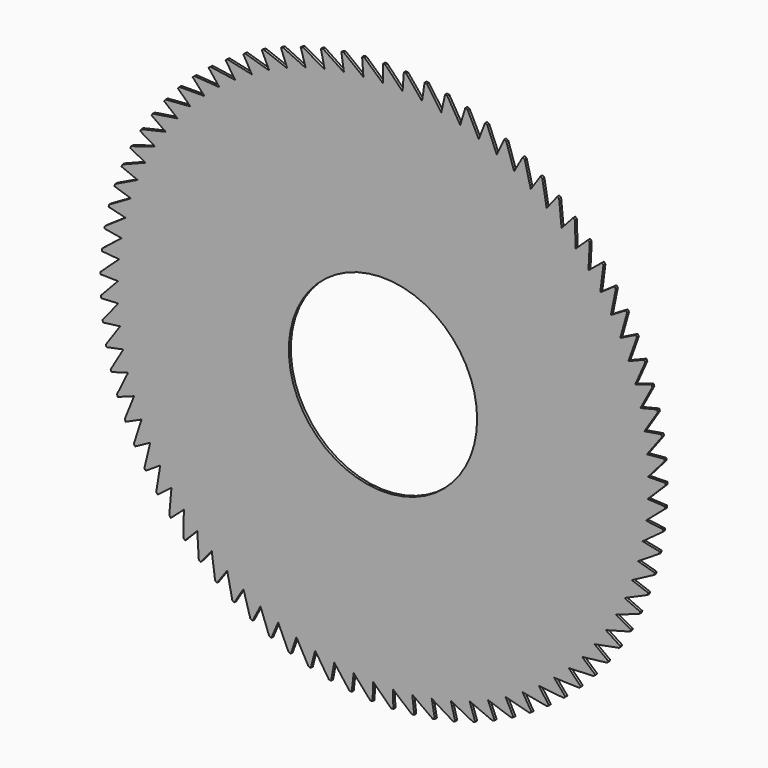
from build123d import *

# Parameters (mm, degrees)
F0_R     = 9.525
F1_DEPTH = 0.254


with BuildPart() as f1:
    # F0 (on Front) → F1 (new body)
    with BuildSketch(Plane.XZ):
        Polygon((0.233135, 28.574049), (0, 28.575), (0, 26.817573), (-1.877767, 28.513236), (-2.110336, 28.496967), (-1.980546, 26.744339), (-3.978414, 28.296693), (-4.209146, 28.263293), (-3.950274, 26.525037), (-6.057332, 27.925604), (-6.284967, 27.875254), (-5.898428, 26.160864), (-8.103166, 27.401995), (-8.326462, 27.334971), (-7.814366, 25.653809), (-10.104745, 26.728725), (-10.322481, 26.645394), (-9.687625, 25.006642), (-12.051134, 25.909473), (-12.262121, 25.810289), (-11.507973, 24.222898), (-13.931705, 24.948712), (-14.134791, 24.834217), (-13.265469, 23.306856), (-15.736185, 23.85169), (-15.930261, 23.722509), (-14.950514, 22.263521), (-17.45472, 22.624398), (-17.638725, 22.481237), (-16.553904, 21.09859), (-19.077923, 21.273539), (-19.250853, 21.11718), (-18.066882, 19.818426), (-20.596929, 19.806492), (-20.757839, 19.637788), (-19.481186, 18.43002), (-22.003442, 18.231269), (-22.151454, 18.051142), (-20.789089, 16.940956), (-23.28978, 16.556473), (-23.424084, 16.365907), (-21.98345, 15.359367), (-24.448917, 14.791251), (-24.568781, 14.591286), (-23.057745, 13.693889), (-25.474522, 12.945244), (-25.579291, 12.736974), (-24.006107, 11.953621), (-26.360995, 11.028535), (-26.450096, 10.813096), (-24.823356, 10.148066), (-27.103493, 9.051592), (-27.17644, 8.830161), (-25.505028, 8.287086), (-27.697961, 7.025212), (-27.754355, 6.798998), (-26.0474, 6.380845), (-28.141152, 4.960463), (-28.180686, 4.730702), (-26.447511, 4.439753), (-28.430646, 2.868622), (-28.453104, 2.636568), (-26.703174, 2.474413), (-28.564862, 0.761113), (-28.570121, 0.528035), (-26.812994, 0.495559), (-28.543066, -1.350553), (-28.531097, -1.583383), (-26.776371, -1.486001), (-28.365378, -3.454842), (-28.336247, -3.686153), (-26.593504, -3.459446), (-28.032769, -5.540263), (-27.986634, -5.76879), (-26.265393, -5.413996), (-27.547054, -7.595424), (-27.484168, -7.81992), (-25.79383, -7.338977), (-26.910886, -9.609102), (-26.831592, -9.82834), (-25.181389, -9.223875), (-26.127741, -11.570298), (-26.032472, -11.783082), (-24.431417, -11.058396), (-25.201895, -13.468301), (-25.091172, -13.673468), (-23.548008, -12.832519), (-24.138404, -15.292745), (-24.012832, -15.489175), (-22.535989, -14.536556), (-22.943079, -17.033665), (-22.803342, -17.220285), (-21.400885, -16.161198), (-21.622446, -18.681554), (-21.469309, -18.857344), (-20.148898, -17.697575), (-20.183719, -20.22741), (-20.018017, -20.39141), (-18.786864, -19.137293), (-18.634755, -21.662791), (-18.457394, -21.814106), (-17.322223, -20.472489), (-16.984015, -22.979858), (-16.795964, -23.117661), (-15.762974, -21.695872), (-15.240514, -24.171416), (-15.042799, -24.294955), (-14.117633, -22.80076), (-13.413775, -25.230959), (-13.207476, -25.339558), (-12.395186, -23.781118), (-11.513774, -26.152698), (-11.300018, -26.245766), (-10.605042, -24.631592), (-9.550889, -26.931601), (-9.330844, -27.008628), (-8.756976, -25.347537), (-7.53584, -27.563413), (-7.310707, -27.623978), (-6.861082, -25.925042), (-5.479634, -28.044683), (-5.250642, -28.088456), (-4.927716, -26.360953), (-3.393499, -28.372783), (-3.1619, -28.399525), (-2.967436, -26.65289), (-1.28883, -28.54592), (-1.055889, -28.555485), (-0.99095, -26.799258), (0.822878, -28.563149), (1.055889, -28.555485), (0.99095, -26.799258), (2.930091, -28.424377), (3.1619, -28.399525), (2.967436, -26.65289), (5.021302, -28.13036), (5.250642, -28.088456), (4.927716, -26.360953), (7.085088, -27.682705), (7.310707, -27.623978), (6.861082, -25.925042), (9.110177, -27.083857), (9.330844, -27.008628), (8.756976, -25.347537), (11.08551, -26.337086), (11.300018, -26.245766), (10.605042, -24.631592), (13.000298, -25.446471), (13.207476, -25.339558), (12.395186, -23.781118), (14.844083, -24.416876), (15.042799, -24.294955), (14.117633, -22.80076), (16.606794, -23.253925), (16.795964, -23.117661), (15.762974, -21.695872), (18.278805, -21.963969), (18.457394, -21.814106), (17.322223, -20.472489), (19.850983, -20.554053), (20.018017, -20.39141), (18.786864, -19.137293), (21.314742, -19.031878), (21.469309, -18.857344), (20.148898, -17.697575), (22.662088, -17.405758), (22.803342, -17.220285), (21.400885, -16.161198), (23.885661, -15.684573), (24.012832, -15.489175), (22.535989, -14.536556), (24.978779, -13.877725), (25.091172, -13.673468), (23.548008, -12.832519), (25.935471, -11.995081), (26.032472, -11.783082), (24.431417, -11.058396), (26.750513, -10.046925), (26.831592, -9.82834), (25.181389, -9.223875), (27.419452, -8.043895), (27.484168, -7.81992), (25.79383, -7.338977), (27.938637, -5.996933), (27.986634, -5.76879), (26.265393, -5.413996), (28.30523, -3.917217), (28.336247, -3.686153), (26.593504, -3.459446), (28.51723, -1.816107), (28.531097, -1.583383), (26.776371, -1.486001), (28.573478, 0.294921), (28.570121, 0.528035), (26.812994, 0.495559), (28.473668, 2.40434), (28.453104, 2.636568), (26.703174, 2.474413), (28.218345, 4.500626), (28.180686, 4.730702), (26.447511, 4.439753), (27.808903, 6.572332), (27.754355, 6.798998), (26.0474, 6.380845), (27.247578, 8.608142), (27.17644, 8.830161), (25.505028, 8.287086), (26.537437, 10.596937), (26.450096, 10.813096), (24.823356, 10.148066), (25.682357, 12.527855), (25.579291, 12.736974), (24.006107, 11.953621), (24.687009, 14.390351), (24.568781, 14.591286), (23.057745, 13.693889), (23.55683, 16.174251), (23.424084, 16.365907), (21.98345, 15.359367), (22.297991, 17.869814), (22.151454, 18.051142), (20.789089, 16.940956), (20.917368, 19.467777), (20.757839, 19.637788), (19.481186, 18.43002), (19.422501, 20.959415), (19.250853, 21.11718), (18.066882, 19.818426), (17.821556, 22.336579), (17.638725, 22.481237), (16.553904, 21.09859), (16.123276, 23.591749), (15.930261, 23.722509), (14.950514, 22.263521), (14.336936, 24.718068), (14.134791, 24.834217), (13.265469, 23.306856), (12.472292, 25.709386), (12.262121, 25.810289), (11.507973, 24.222898), (10.539529, 26.560289), (10.322481, 26.645394), (9.687625, 25.006642), (8.549203, 27.266128), (8.326462, 27.334971), (7.814366, 25.653809), (6.512184, 27.823049), (6.284967, 27.875254), (5.898428, 26.160864), (4.439598, 28.228011), (4.209146, 28.263293), (3.950274, 26.525037), (2.342765, 28.478801), (2.110336, 28.496967), (1.980546, 26.744339), align=None)
        Circle(F0_R, mode=Mode.SUBTRACT)
    extrude(amount=F1_DEPTH)


solid = f1.part
